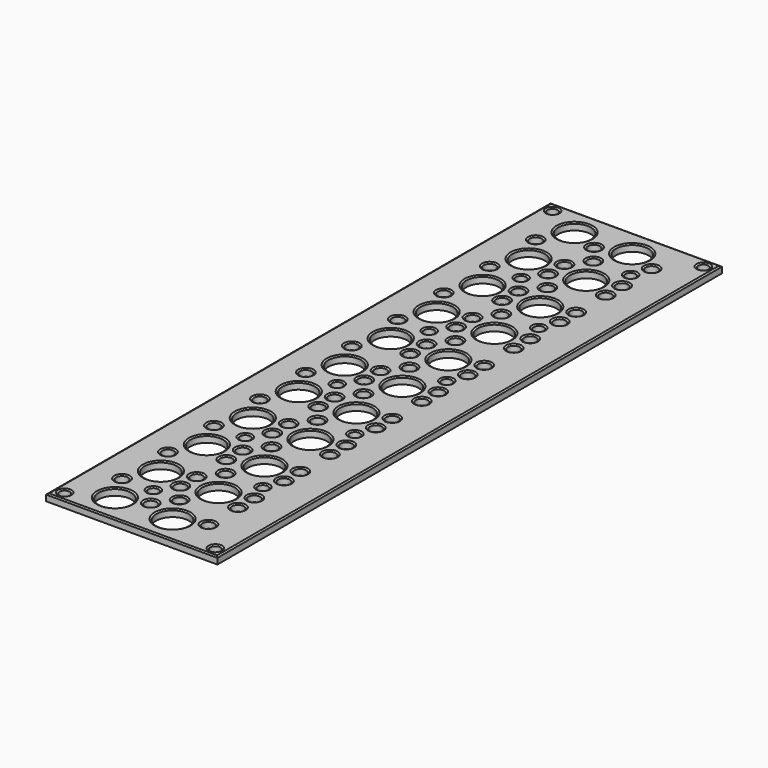
from build123d import *

# Parameters (mm, degrees)
F0_W     = 49.8404
F0_H     = 183.4444
F0_R     = 1.75
F1_DEPTH = 2
F2_R     = 4.75
F2_R_2   = 1.5
F3_DEPTH = 25
F4_SIZE2 = 0.2886751346
F4_SIZE  = 0.5


with BuildPart() as f1:
    # F0 (on Top) → F1 (new body)
    with BuildSketch(Plane.XY):
        with Locations((21.9202, 88.7222)):
            Rectangle(F0_W, F0_H)
        with Locations((5.8754, 13.5123)):
            Circle(F0_R, mode=Mode.SUBTRACT)
        with Locations((5.8754, 30.2256)):
            Circle(F0_R, mode=Mode.SUBTRACT)
        with Locations((18.542, 8.1355)):
            Circle(F0_R, mode=Mode.SUBTRACT)
        with Locations((18.542, 18.8891)):
            Circle(F0_R, mode=Mode.SUBTRACT)
        with Locations((18.542, 24.8488)):
            Circle(F0_R, mode=Mode.SUBTRACT)
        with Locations((18.542, 35.6024)):
            Circle(F0_R, mode=Mode.SUBTRACT)
        with Locations((18.542, 41.5621)):
            Circle(F0_R, mode=Mode.SUBTRACT)
        with Locations((5.8754, 46.9389)):
            Circle(F0_R, mode=Mode.SUBTRACT)
        with Locations((5.8754, 63.6522)):
            Circle(F0_R, mode=Mode.SUBTRACT)
        with Locations((5.8754, 80.3655)):
            Circle(F0_R, mode=Mode.SUBTRACT)
        with Locations((18.542, 52.3157)):
            Circle(F0_R, mode=Mode.SUBTRACT)
        with Locations((18.542, 58.2754)):
            Circle(F0_R, mode=Mode.SUBTRACT)
        with Locations((18.542, 69.029)):
            Circle(F0_R, mode=Mode.SUBTRACT)
        with Locations((18.542, 74.9887)):
            Circle(F0_R, mode=Mode.SUBTRACT)
        with Locations((18.542, 85.7423)):
            Circle(F0_R, mode=Mode.SUBTRACT)
        with Locations((22.6394, 13.5123)):
            Circle(F0_R, mode=Mode.SUBTRACT)
        with Locations((22.6394, 30.2256)):
            Circle(F0_R, mode=Mode.SUBTRACT)
        with Locations((35.306, 8.1355)):
            Circle(F0_R, mode=Mode.SUBTRACT)
        with Locations((35.306, 18.8891)):
            Circle(F0_R, mode=Mode.SUBTRACT)
        with Locations((35.306, 24.8488)):
            Circle(F0_R, mode=Mode.SUBTRACT)
        with Locations((35.306, 35.6024)):
            Circle(F0_R, mode=Mode.SUBTRACT)
        with Locations((35.306, 41.5621)):
            Circle(F0_R, mode=Mode.SUBTRACT)
        with Locations((22.6394, 46.9389)):
            Circle(F0_R, mode=Mode.SUBTRACT)
        with Locations((22.6394, 63.6522)):
            Circle(F0_R, mode=Mode.SUBTRACT)
        with Locations((22.6394, 80.3655)):
            Circle(F0_R, mode=Mode.SUBTRACT)
        with Locations((35.306, 52.3157)):
            Circle(F0_R, mode=Mode.SUBTRACT)
        with Locations((35.306, 58.2754)):
            Circle(F0_R, mode=Mode.SUBTRACT)
        with Locations((35.306, 69.029)):
            Circle(F0_R, mode=Mode.SUBTRACT)
        with Locations((35.306, 74.9887)):
            Circle(F0_R, mode=Mode.SUBTRACT)
        with Locations((35.306, 85.7423)):
            Circle(F0_R, mode=Mode.SUBTRACT)
        with Locations((5.8754, 97.0788)):
            Circle(F0_R, mode=Mode.SUBTRACT)
        with Locations((5.8754, 113.7921)):
            Circle(F0_R, mode=Mode.SUBTRACT)
        with Locations((5.8754, 130.5054)):
            Circle(F0_R, mode=Mode.SUBTRACT)
        with Locations((18.542, 91.702)):
            Circle(F0_R, mode=Mode.SUBTRACT)
        with Locations((18.542, 102.4556)):
            Circle(F0_R, mode=Mode.SUBTRACT)
        with Locations((18.542, 108.4153)):
            Circle(F0_R, mode=Mode.SUBTRACT)
        with Locations((18.542, 119.1689)):
            Circle(F0_R, mode=Mode.SUBTRACT)
        with Locations((18.542, 125.1286)):
            Circle(F0_R, mode=Mode.SUBTRACT)
        with Locations((5.8754, 147.2187)):
            Circle(F0_R, mode=Mode.SUBTRACT)
        with Locations((5.8754, 163.932)):
            Circle(F0_R, mode=Mode.SUBTRACT)
        with Locations((18.542, 135.8822)):
            Circle(F0_R, mode=Mode.SUBTRACT)
        with Locations((18.542, 141.8419)):
            Circle(F0_R, mode=Mode.SUBTRACT)
        with Locations((18.542, 152.5955)):
            Circle(F0_R, mode=Mode.SUBTRACT)
        with Locations((18.542, 158.5552)):
            Circle(F0_R, mode=Mode.SUBTRACT)
        with Locations((18.542, 169.3088)):
            Circle(F0_R, mode=Mode.SUBTRACT)
        with Locations((22.6394, 97.0788)):
            Circle(F0_R, mode=Mode.SUBTRACT)
        with Locations((22.6394, 113.7921)):
            Circle(F0_R, mode=Mode.SUBTRACT)
        with Locations((22.6394, 130.5054)):
            Circle(F0_R, mode=Mode.SUBTRACT)
        with Locations((35.306, 91.702)):
            Circle(F0_R, mode=Mode.SUBTRACT)
        with Locations((35.306, 102.4556)):
            Circle(F0_R, mode=Mode.SUBTRACT)
        with Locations((35.306, 108.4153)):
            Circle(F0_R, mode=Mode.SUBTRACT)
        with Locations((35.306, 119.1689)):
            Circle(F0_R, mode=Mode.SUBTRACT)
        with Locations((35.306, 125.1286)):
            Circle(F0_R, mode=Mode.SUBTRACT)
        with Locations((22.6394, 147.2187)):
            Circle(F0_R, mode=Mode.SUBTRACT)
        with Locations((22.6394, 163.932)):
            Circle(F0_R, mode=Mode.SUBTRACT)
        with Locations((35.306, 135.8822)):
            Circle(F0_R, mode=Mode.SUBTRACT)
        with Locations((35.306, 141.8419)):
            Circle(F0_R, mode=Mode.SUBTRACT)
        with Locations((35.306, 152.5955)):
            Circle(F0_R, mode=Mode.SUBTRACT)
        with Locations((35.306, 158.5552)):
            Circle(F0_R, mode=Mode.SUBTRACT)
        with Locations((35.306, 169.3088)):
            Circle(F0_R, mode=Mode.SUBTRACT)
    extrude(amount=F1_DEPTH)

    # F2 (on face) → F3 (cut)
    with BuildSketch(Plane.XY.offset(2)):
        with Locations((10.5, 21.86895)):
            Circle(F2_R)
        with Locations((10.5, 138.86205)):
            Circle(F2_R)
        with Locations((27.264, 155.57535)):
            Circle(F2_R)
        with Locations((27.264, 122.14875)):
            Circle(F2_R)
        with Locations((27.264, 38.58225)):
            Circle(F2_R)
        with Locations((10.5, 155.57535)):
            Circle(F2_R)
        with Locations((10.5, 105.43545)):
            Circle(F2_R)
        with Locations((27.264, 105.43545)):
            Circle(F2_R)
        with Locations((10.5, 88.72215)):
            Circle(F2_R)
        with Locations((27.264, 88.72215)):
            Circle(F2_R)
        with Locations((10.5, 122.14875)):
            Circle(F2_R)
        with Locations((27.264, 172.28865)):
            Circle(F2_R)
        with Locations((10.5, 5.15565)):
            Circle(F2_R)
        with Locations((27.264, 5.15565)):
            Circle(F2_R)
        with Locations((27.264, 21.86895)):
            Circle(F2_R)
        with Locations((27.264, 55.29555)):
            Circle(F2_R)
        with Locations((10.5, 38.58225)):
            Circle(F2_R)
        with Locations((10.5, 172.28865)):
            Circle(F2_R)
        with Locations((27.264, 72.00885)):
            Circle(F2_R)
        with Locations((10.5, 55.29555)):
            Circle(F2_R)
        with Locations((27.264, 138.86205)):
            Circle(F2_R)
        with Locations((10.5, 72.00885)):
            Circle(F2_R)
        with Locations((43.8404, 0)):
            Circle(F2_R_2)
        with Locations((0, 177.4444)):
            Circle(F2_R_2)
        with Locations((15, 13.5123)):
            Circle(F2_R_2)
        with Locations((33.5, 30.2256)):
            Circle(F2_R_2)
        with Locations((15, 46.9389)):
            Circle(F2_R_2)
        with Locations((33.5, 63.6522)):
            Circle(F2_R_2)
        with Locations((15, 80.3655)):
            Circle(F2_R_2)
        with Locations((33.5, 97.0788)):
            Circle(F2_R_2)
        with Locations((15, 113.7921)):
            Circle(F2_R_2)
        with Locations((33.5, 130.5054)):
            Circle(F2_R_2)
        with Locations((33.5, 163.932)):
            Circle(F2_R_2)
        with Locations((15, 147.2187)):
            Circle(F2_R_2)
        Circle(F2_R_2)
        with Locations((43.8404, 177.4444)):
            Circle(F2_R_2)
    extrude(amount=-F3_DEPTH, mode=Mode.SUBTRACT)

    # F4
    f4_edges = [f1.edges().sort_by_distance(p)[0] for p in [
        (21.9202, -3, 2),
        (-3, 88.7222, 2),
        (46.8404, 88.7222, 2),
        (21.9202, 180.4444, 2),
        (-1.5, 0, 2),
        (4.1254, 13.5123, 2),
        (4.1254, 30.2256, 2),
        (5.75, 5.15565, 2),
        (13.5, 13.5123, 2),
        (16.792, 8.1355, 2),
        (16.792, 18.8891, 2),
        (5.75, 21.86895, 2),
        (5.75, 38.58225, 2),
        (16.792, 24.8488, 2),
        (16.792, 35.6024, 2),
        (16.792, 41.5621, 2),
        (4.1254, 46.9389, 2),
        (4.1254, 63.6522, 2),
        (4.1254, 80.3655, 2),
        (13.5, 46.9389, 2),
        (5.75, 55.29555, 2),
        (16.792, 52.3157, 2),
        (16.792, 58.2754, 2),
        (5.75, 72.00885, 2),
        (5.75, 88.72215, 2),
        (13.5, 80.3655, 2),
        (16.792, 69.029, 2),
        (16.792, 74.9887, 2),
        (16.792, 85.7423, 2),
        (22.514, 5.15565, 2),
        (20.8894, 13.5123, 2),
        (20.8894, 30.2256, 2),
        (22.514, 21.86895, 2),
        (22.514, 38.58225, 2),
        (32, 30.2256, 2),
        (33.556, 8.1355, 2),
        (33.556, 18.8891, 2),
        (42.3404, 0, 2),
        (33.556, 24.8488, 2),
        (33.556, 35.6024, 2),
        (33.556, 41.5621, 2),
        (20.8894, 46.9389, 2),
        (20.8894, 63.6522, 2),
        (22.514, 55.29555, 2),
        (32, 63.6522, 2),
        (22.514, 72.00885, 2),
        (20.8894, 80.3655, 2),
        (22.514, 88.72215, 2),
        (33.556, 52.3157, 2),
        (33.556, 58.2754, 2),
        (33.556, 69.029, 2),
        (33.556, 74.9887, 2),
        (33.556, 85.7423, 2),
        (4.1254, 97.0788, 2),
        (4.1254, 113.7921, 2),
        (4.1254, 130.5054, 2),
        (5.75, 105.43545, 2),
        (16.792, 91.702, 2),
        (16.792, 102.4556, 2),
        (16.792, 108.4153, 2),
        (5.75, 122.14875, 2),
        (13.5, 113.7921, 2),
        (16.792, 119.1689, 2),
        (16.792, 125.1286, 2),
        (4.1254, 147.2187, 2),
        (-1.5, 177.4444, 2),
        (4.1254, 163.932, 2),
        (5.75, 138.86205, 2),
        (5.75, 155.57535, 2),
        (13.5, 147.2187, 2),
        (16.792, 135.8822, 2),
        (16.792, 141.8419, 2),
        (16.792, 152.5955, 2),
        (5.75, 172.28865, 2),
        (16.792, 158.5552, 2),
        (16.792, 169.3088, 2),
        (20.8894, 97.0788, 2),
        (22.514, 105.43545, 2),
        (32, 97.0788, 2),
        (20.8894, 113.7921, 2),
        (22.514, 122.14875, 2),
        (20.8894, 130.5054, 2),
        (32, 130.5054, 2),
        (33.556, 91.702, 2),
        (33.556, 102.4556, 2),
        (33.556, 108.4153, 2),
        (33.556, 119.1689, 2),
        (33.556, 125.1286, 2),
        (22.514, 138.86205, 2),
        (20.8894, 147.2187, 2),
        (22.514, 155.57535, 2),
        (20.8894, 163.932, 2),
        (22.514, 172.28865, 2),
        (32, 163.932, 2),
        (33.556, 135.8822, 2),
        (33.556, 141.8419, 2),
        (33.556, 152.5955, 2),
        (33.556, 158.5552, 2),
        (33.556, 169.3088, 2),
        (42.3404, 177.4444, 2),
    ]]
    f4_side = f1.faces().sort_by_distance((21.9202, -1.099055, 2))[0]
    chamfer(f4_edges, length=F4_SIZE, length2=F4_SIZE2, reference=f4_side)


solid = f1.part
